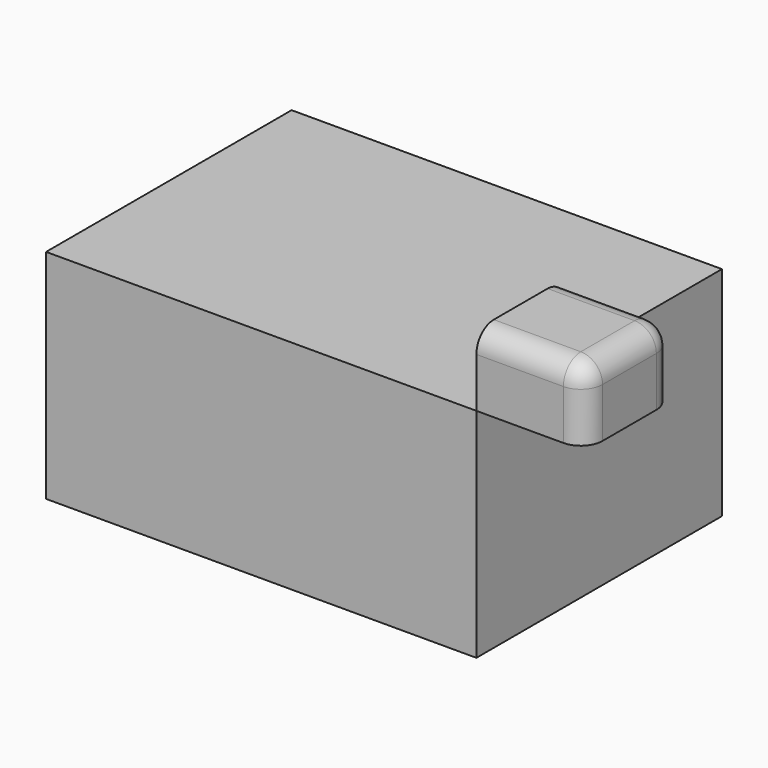
from build123d import *

# Parameters (mm, degrees)
F0_W     = 100.51769
F0_H     = 71.692765
F1_DEPTH = 50.799999
F2_W     = 25.868505
F2_H     = 16.688574
F3_DEPTH = 25.4
F4_R     = 5.08
F5_R     = 5.08
F6_R     = 5.08


with BuildPart() as f1:
    # F0 (on Top) → F1 (new body)
    with BuildSketch(Plane.XY):
        with Locations((-7.021472, 9.977877)):
            Rectangle(F0_W, F0_H)
    extrude(amount=F1_DEPTH)


with BuildPart() as f3:
    # F2 (on face) → F3 (new body)
    with BuildSketch(Plane.YZ.offset(43.237373)):
        with Locations((-12.934252, 59.144286)):
            Rectangle(F2_W, F2_H)
    extrude(amount=F3_DEPTH)

    # F4
    f4_edges = [f3.edges().sort_by_distance(p)[0] for p in [
        (55.937373, 0, 67.488573),
    ]]
    fillet(f4_edges, radius=F4_R)

    # F5
    f5_edges = [f3.edges().sort_by_distance(p)[0] for p in [
        (55.937373, -25.868505, 67.488573),
    ]]
    fillet(f5_edges, radius=F5_R)

    # F6
    f6_edges = [f3.edges().sort_by_distance(p)[0] for p in [
        (68.637373, -12.934253, 67.488573),
    ]]
    fillet(f6_edges, radius=F6_R)


solid = Compound([f1.part, f3.part])
